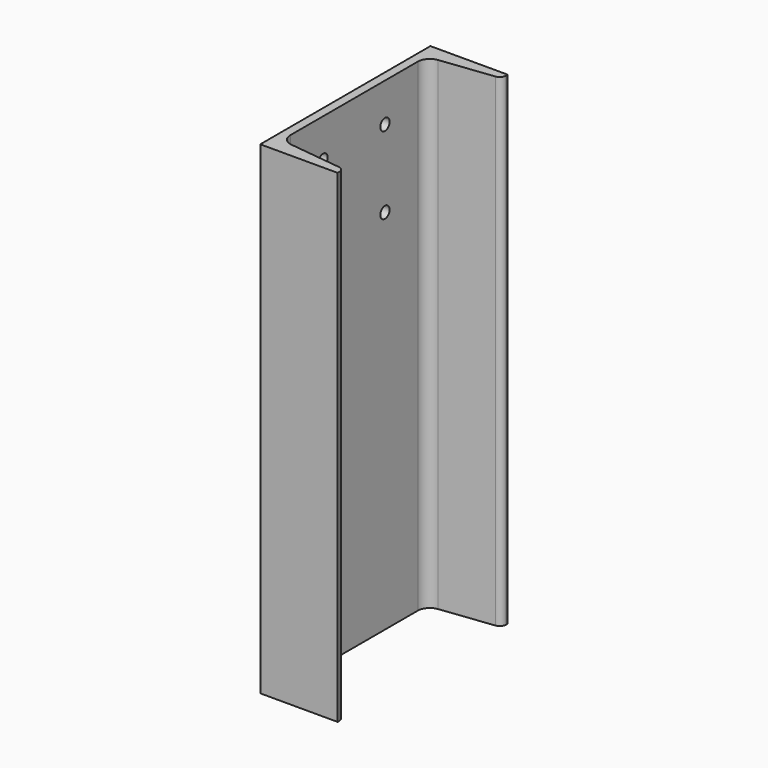
from build123d import *

# Parameters (mm, degrees)
F1_DEPTH = 250
F2_R     = 6
F3_DEPTH = 80.001


with BuildPart() as f1:
    # F0 (on Top) → F1 (new body, symmetric)
    with BuildSketch(Plane.XY):
        with BuildLine():
            Line((0, 110), (0, 0))
            Line((0, 0), (80, 0))
            Line((80, 0), (80, 2.233367))
            ThreePointArc((80, 2.233367), (78.362298, 6.547073), (74.274444, 8.687067))
            Line((74.274444, 8.687067), (20.010685, 15.198718))
            ThreePointArc((20.010685, 15.198718), (12.149427, 19.31409), (9, 27.609678))
            Line((9, 27.609678), (9, 110))
            Line((9, 110), (9, 192.390322))
            ThreePointArc((9, 192.390322), (12.149427, 200.68591), (20.010685, 204.801282))
            Line((20.010685, 204.801282), (74.274444, 211.312933))
            ThreePointArc((74.274444, 211.312933), (78.362298, 213.452927), (80, 217.766633))
            Line((80, 217.766633), (80, 220))
            Line((80, 220), (0, 220))
            Line((0, 220), (0, 110))
        make_face()
    extrude(amount=F1_DEPTH, both=True)

    # F2 (on face) → F3 (cut, through all)
    with BuildSketch(Plane(origin=(0, 0, 0), x_dir=(0, -1, 0), z_dir=(-1, 0, 0))):
        with Locations((-70, 210)):
            Circle(F2_R)
        with Locations((-150, 210)):
            Circle(F2_R)
        with Locations((-70, 130)):
            Circle(F2_R)
        with Locations((-150, 130)):
            Circle(F2_R)
    extrude(amount=-F3_DEPTH, mode=Mode.SUBTRACT)


solid = f1.part
